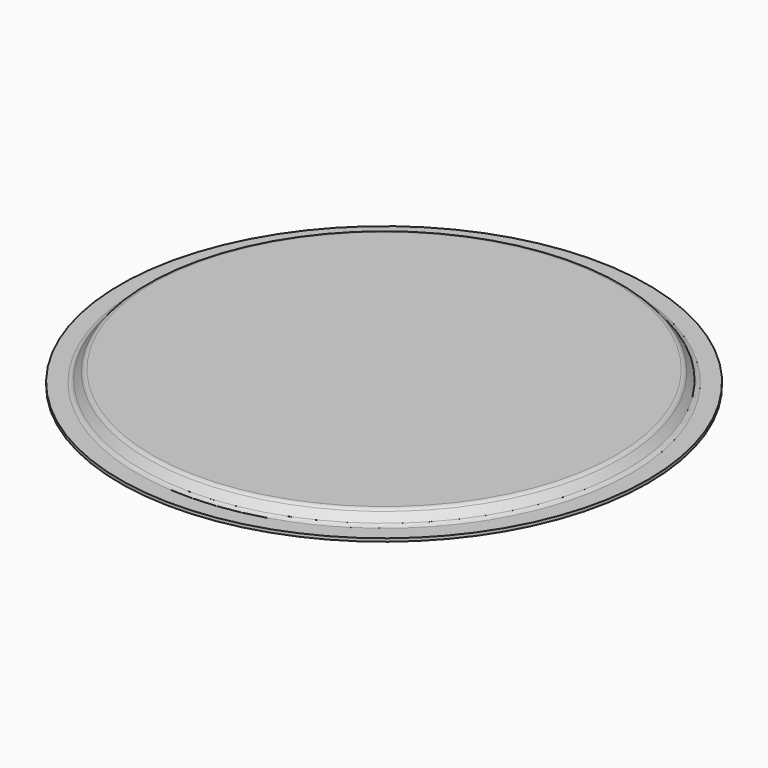
from build123d import *


with BuildPart() as f1:
    # F0 (on Front) → F1 (revolve)
    with BuildSketch(Plane.XZ):
        with BuildLine():
            Line((259.395182, 0), (0, 0))
            Line((0, 0), (0, -3.429))
            Line((0, -3.429), (260.757632, -3.429))
            Line((260.757632, -3.429), (268.478561, -12.634282))
            ThreePointArc((268.478561, -12.634282), (271.837306, -15.21236), (275.971, -16.129))
            Line((275.971, -16.129), (295.021, -16.129))
            Line((295.021, -16.129), (295.021, -12.7))
            Line((295.021, -12.7), (275.971, -12.7))
            ThreePointArc((275.971, -12.7), (273.286783, -12.104779), (271.10578, -10.430703))
            Line((271.10578, -10.430703), (264.260402, -2.269297))
            ThreePointArc((264.260402, -2.269297), (262.079399, -0.595221), (259.395182, 0))
        make_face()
    revolve(axis=Axis((0, 0, -1.7145), (0, 0, -1)))


solid = f1.part
